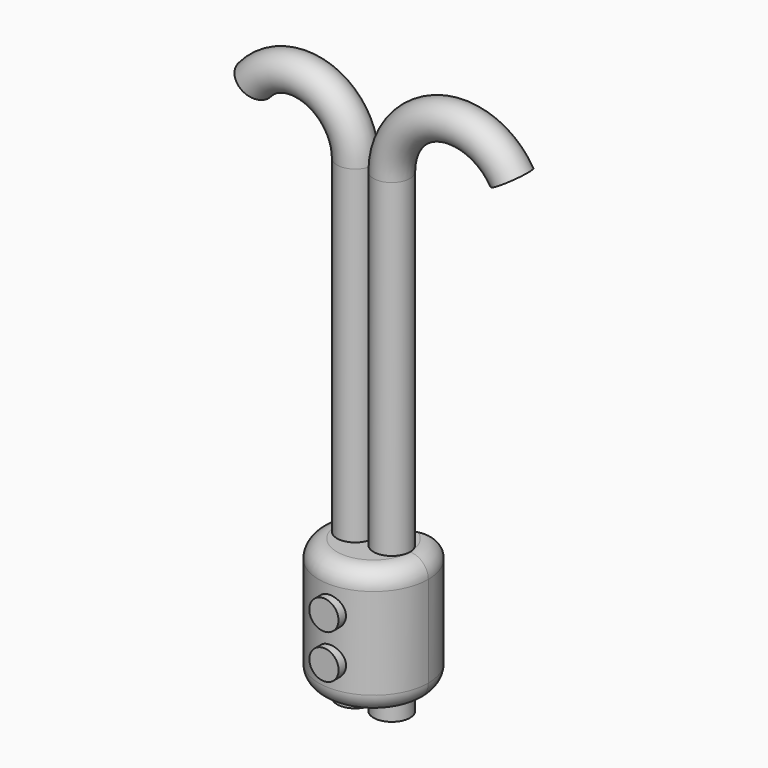
from build123d import *

# Parameters (mm, degrees)
F0_R     = 5
F0_R_2   = 3
F4_DEPTH = 35
F1_R     = 4
F5_DEPTH = 17
F6_R     = 5
F7_DEPTH = 40


with BuildPart() as f2:
    # F2: sweep along a path in F1
    with BuildLine(Plane.XZ) as f2_path:
        Line((-5, 0), (-5, 90))
        ThreePointArc((-5, 90), (-15.2718666263, 104.6433608846), (-32.5374267995, 99.9700650573))
    # F0 (on Top) → F2 (sweep)
    with BuildSketch(Plane.XY):
        with Locations((-5, 0)):
            Circle(F0_R)
        with Locations((-5.026855227, 0.0678807108)):
            Circle(F0_R_2, mode=Mode.SUBTRACT)
    sweep(path=f2_path.line)

    # F3: sweep along a path in F1
    with BuildLine(Plane.XZ) as f3_path:
        Line((5, 0), (5, 90))
        ThreePointArc((5, 90), (17.970929604, 107.1185690987), (37.960331887, 99.2627292871))
    # F0 (on Top) → F3 (sweep)
    with BuildSketch(Plane.XY):
        with BuildLine():
            ThreePointArc((10, 0), (5, 5), (0, 0))
            ThreePointArc((0, 0), (5, -5), (10, 0))
        make_face()
        with Locations((4.973144773, 0.0678807108)):
            Circle(F0_R_2, mode=Mode.SUBTRACT)
    sweep(path=f3_path.line)


with BuildPart() as f4:
    # F0 (on Top) → F4 (new body)
    with BuildSketch(Plane.XY):
        with BuildLine():
            ThreePointArc((-11.0700592909, 10.1219458255), (-5.4290473675, -13.9830413245), (15, 0))
            ThreePointArc((15, 0), (13.9830413245, 5.4290473675), (11.0700592909, 10.1219458255))
            ThreePointArc((11.0700592909, 10.1219458255), (0, 7.5374267995), (-11.0700592909, 10.1219458255))
        make_face()
        with Locations((-5, 0)):
            Circle(F0_R, mode=Mode.SUBTRACT)
        with BuildLine():
            ThreePointArc((10, 0), (5, -5), (0, 0))
            ThreePointArc((0, 0), (5, 5), (10, 0))
        make_face(mode=Mode.SUBTRACT)
        with BuildLine():
            ThreePointArc((10, 0), (5, 5), (0, 0))
            ThreePointArc((0, 0), (5, -5), (10, 0))
        make_face()
        with Locations((4.973144773, 0.0678807108)):
            Circle(F0_R_2, mode=Mode.SUBTRACT)
        with Locations((-5, 0)):
            Circle(F0_R)
        with Locations((-5.026855227, 0.0678807108)):
            Circle(F0_R_2, mode=Mode.SUBTRACT)
        with BuildLine():
            ThreePointArc((10, 0), (5, 5), (0, 0))
            ThreePointArc((0, 0), (5, -5), (10, 0))
        make_face()
        with Locations((4.973144773, 0.0678807108)):
            Circle(F0_R_2, mode=Mode.SUBTRACT)
    extrude(amount=-F4_DEPTH)

    # F6
    f6_edges = [f4.edges().sort_by_distance(p)[0] for p in [
        (0, -15, -35),
        (0, -15, 0),
    ]]
    fillet(f6_edges, radius=F6_R)


with BuildPart() as f5:
    # F1 (on Front) → F5 (new body)
    with BuildSketch(Plane.XZ):
        with Locations((0, -11.5)):
            Circle(F1_R)
    extrude(amount=F5_DEPTH)


with BuildPart() as f5b:
    # F1 (on Front) → F5, piece 2 (new body)
    with BuildSketch(Plane.XZ):
        with Locations((0.0321919549, -23.4999568198)):
            Circle(F1_R)
    extrude(amount=F5_DEPTH)


with BuildPart() as f7:
    # F0 (on Top) → F7 (new body)
    with BuildSketch(Plane.XY):
        with Locations((-5, 0)):
            Circle(F0_R)
        with Locations((-5.026855227, 0.0678807108)):
            Circle(F0_R_2, mode=Mode.SUBTRACT)
    extrude(amount=-F7_DEPTH)


with BuildPart() as f7b:
    # F0 (on Top) → F7, piece 2 (new body)
    with BuildSketch(Plane.XY):
        with BuildLine():
            ThreePointArc((10, 0), (5, 5), (0, 0))
            ThreePointArc((0, 0), (5, -5), (10, 0))
        make_face()
        with Locations((4.973144773, 0.0678807108)):
            Circle(F0_R_2, mode=Mode.SUBTRACT)
    extrude(amount=-F7_DEPTH)


solid = Compound([f2.part, f4.part, f5.part, f5b.part, f7.part, f7b.part])
